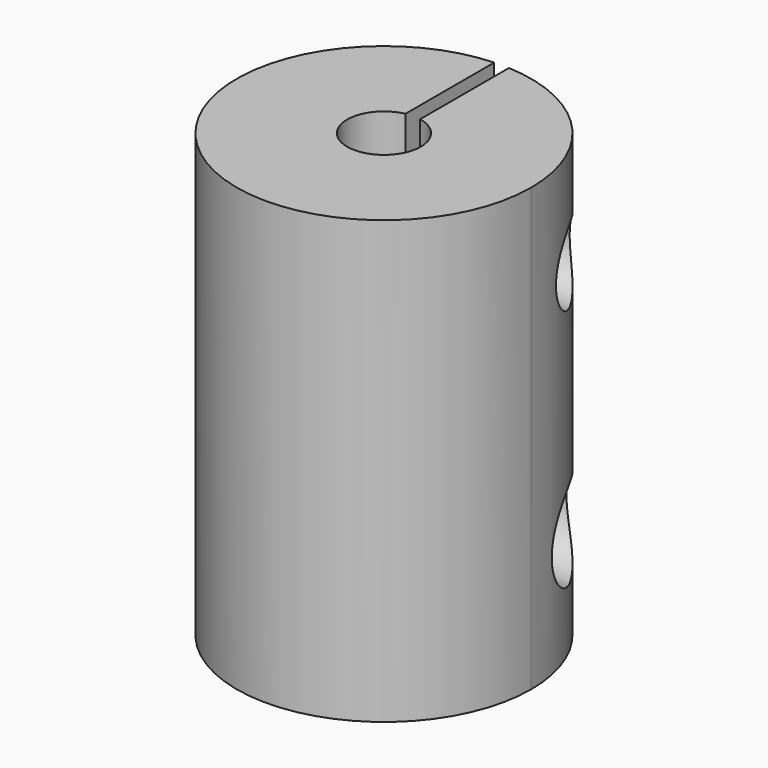
from build123d import *

# Parameters (mm, degrees)
BOX_W                         = 1
BOX_H                         = 11
BOX_DEPTH                     = 30
CYLINDER_R                    = 1
CYLINDER_DEPTH                = 20
CYLINDER_PITCH_ANGLE          = 90
CYLINDER003_R                 = 1
CYLINDER003_DEPTH             = 20
CYLINDER003_PITCH_ANGLE       = 90
CYLINDER004001_R              = 2.5
CYLINDER004001_DEPTH          = 7
CYLINDER004001_PITCH_ANGLE    = 90
CYLINDER004_R                 = 3
CYLINDER004_DEPTH             = 7
CYLINDER004_PITCH_ANGLE       = 90
CYLINDER004002_R              = 2.5
CYLINDER004002_DEPTH          = 7
CYLINDER004002_PITCH_ANGLE    = 90
CYLINDER004002001_R           = 3
CYLINDER004002001_DEPTH       = 7
CYLINDER004002001_PITCH_ANGLE = 90
CYLINDER001_R                 = 2.5
CYLINDER001_DEPTH             = 30
CYLINDER002_R                 = 10
CYLINDER002_DEPTH             = 30


with BuildPart() as obj1:
    # Box → Box (new body)
    with BuildSketch(Plane(origin=(-0.5, 0, 0), x_dir=(1, 0, 0), z_dir=(0, 0, 1))):
        with Locations((0.5, 5.5)):
            Rectangle(BOX_W, BOX_H)
    extrude(amount=BOX_DEPTH)


with BuildPart() as trou_vis_haut:
    # Cylinder → Cylinder (new body)
    with BuildSketch(Plane.XY):
        Circle(CYLINDER_R)
    extrude(amount=CYLINDER_DEPTH)


with BuildPart() as trou_vis_haut_1:
    # Cylinder pitch: moved
    add(trou_vis_haut.part.rotate(Axis((0, 0, 0), (0, 1, 0)), CYLINDER_PITCH_ANGLE))


with BuildPart() as trou_vis_haut_2:
    # Cylinder placement: moved
    add(trou_vis_haut_1.part.moved(Location((-10, 5, 23))))


with BuildPart() as trou_vis_bas:
    # Cylinder003 → Cylinder003 (new body)
    with BuildSketch(Plane.XY):
        Circle(CYLINDER003_R)
    extrude(amount=CYLINDER003_DEPTH)


with BuildPart() as trou_vis_bas_1:
    # Cylinder003 pitch: moved
    add(trou_vis_bas.part.rotate(Axis((0, 0, 0), (0, 1, 0)), CYLINDER003_PITCH_ANGLE))


with BuildPart() as trou_vis_bas_2:
    # Cylinder003 placement: moved
    add(trou_vis_bas_1.part.moved(Location((-10, 5, 7))))


with BuildPart() as obj2:
    # Cylinder004001 → Cylinder004001 (new body)
    with BuildSketch(Plane.XY):
        Circle(CYLINDER004001_R)
    extrude(amount=CYLINDER004001_DEPTH)


with BuildPart() as obj2_1:
    # Cylinder004001 pitch: moved
    add(obj2.part.rotate(Axis((0, 0, 0), (0, 1, 0)), CYLINDER004001_PITCH_ANGLE))


with BuildPart() as obj2_2:
    # Cylinder004001 placement: moved
    add(obj2_1.part.moved(Location((-10, 5, 7))))


with BuildPart() as obj3:
    # Cylinder004 → Cylinder004 (new body)
    with BuildSketch(Plane.XY):
        Circle(CYLINDER004_R)
    extrude(amount=CYLINDER004_DEPTH)


with BuildPart() as obj3_1:
    # Cylinder004 pitch: moved
    add(obj3.part.rotate(Axis((0, 0, 0), (0, 1, 0)), CYLINDER004_PITCH_ANGLE))


with BuildPart() as obj3_2:
    # Cylinder004 placement: moved
    add(obj3_1.part.moved(Location((2.999997, 5, 7.000003))))


with BuildPart() as obj4:
    # Cylinder004002 → Cylinder004002 (new body)
    with BuildSketch(Plane.XY):
        Circle(CYLINDER004002_R)
    extrude(amount=CYLINDER004002_DEPTH)


with BuildPart() as obj4_1:
    # Cylinder004002 pitch: moved
    add(obj4.part.rotate(Axis((0, 0, 0), (0, 1, 0)), CYLINDER004002_PITCH_ANGLE))


with BuildPart() as obj4_2:
    # Cylinder004002 placement: moved
    add(obj4_1.part.moved(Location((3, 5, 23))))


with BuildPart() as obj5:
    # Cylinder004002001 → Cylinder004002001 (new body)
    with BuildSketch(Plane.XY):
        Circle(CYLINDER004002001_R)
    extrude(amount=CYLINDER004002001_DEPTH)


with BuildPart() as obj5_1:
    # Cylinder004002001 pitch: moved
    add(obj5.part.rotate(Axis((0, 0, 0), (0, 1, 0)), CYLINDER004002001_PITCH_ANGLE))


with BuildPart() as obj5_2:
    # Cylinder004002001 placement: moved
    add(obj5_1.part.moved(Location((-10, 5, 23))))


with BuildPart() as cylinder001:
    # Cylinder001 → Cylinder001 (new body)
    with BuildSketch(Plane.XY):
        Circle(CYLINDER001_R)
    extrude(amount=CYLINDER001_DEPTH)


with BuildPart() as cut007:
    # Cylinder002 → Cylinder002 (new body)
    with BuildSketch(Plane.XY):
        Circle(CYLINDER002_R)
    extrude(amount=CYLINDER002_DEPTH)

    # Cut: cut Cylinder001
    add(cylinder001.part, mode=Mode.SUBTRACT)

    # Cut001: cut obj5
    add(obj5_2.part, mode=Mode.SUBTRACT)

    # Cut002: cut obj4
    add(obj4_2.part, mode=Mode.SUBTRACT)

    # Cut003: cut obj3
    add(obj3_2.part, mode=Mode.SUBTRACT)

    # Cut004: cut obj2
    add(obj2_2.part, mode=Mode.SUBTRACT)

    # Cut005: cut trou vis bas
    add(trou_vis_bas_2.part, mode=Mode.SUBTRACT)

    # Cut006: cut  trou vis haut
    add(trou_vis_haut_2.part, mode=Mode.SUBTRACT)

    # Cut007: cut obj1
    add(obj1.part, mode=Mode.SUBTRACT)


solid = cut007.part
